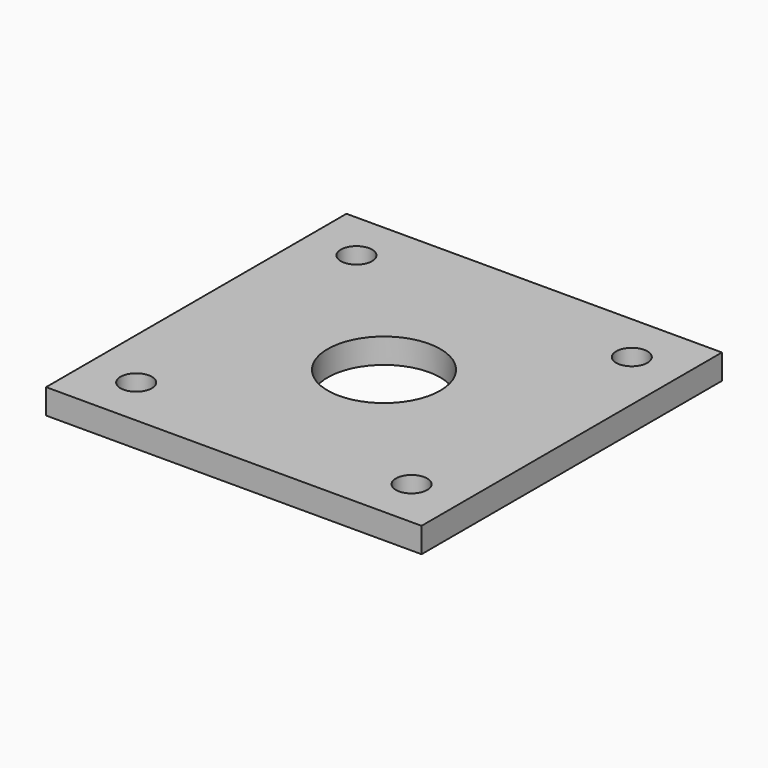
from build123d import *

# Parameters (mm, degrees)
F0_W     = 38.1
F0_H     = 38.1
F1_DEPTH = 2.54
F2_R     = 5.715
F3_DEPTH = 25.4
F4_R     = 1.5875
F5_DEPTH = 25.4


with BuildPart() as f1:
    # F0 (on Top) → F1 (new body)
    with BuildSketch(Plane.XY):
        Rectangle(F0_W, F0_H)
    extrude(amount=F1_DEPTH)

    # F2 (on Top) → F3 (cut)
    with BuildSketch(Plane.XY):
        Circle(F2_R)
    extrude(amount=F3_DEPTH, mode=Mode.SUBTRACT)

    # F4 (on Top) → F5 (cut)
    with BuildSketch(Plane.XY):
        with Locations((13.97, 13.97)):
            Circle(F4_R)
    extrude(amount=F5_DEPTH, mode=Mode.SUBTRACT)

    # F6: F1 across plane


with BuildPart() as f1_1:
    add(f1.part)
    add(f1.part.mirror(Plane.YZ), mode=Mode.INTERSECT)

    # F7: F1 across plane


with BuildPart() as f1_2:
    add(f1_1.part)
    add(f1_1.part.mirror(Plane.XZ), mode=Mode.INTERSECT)


solid = f1_2.part
